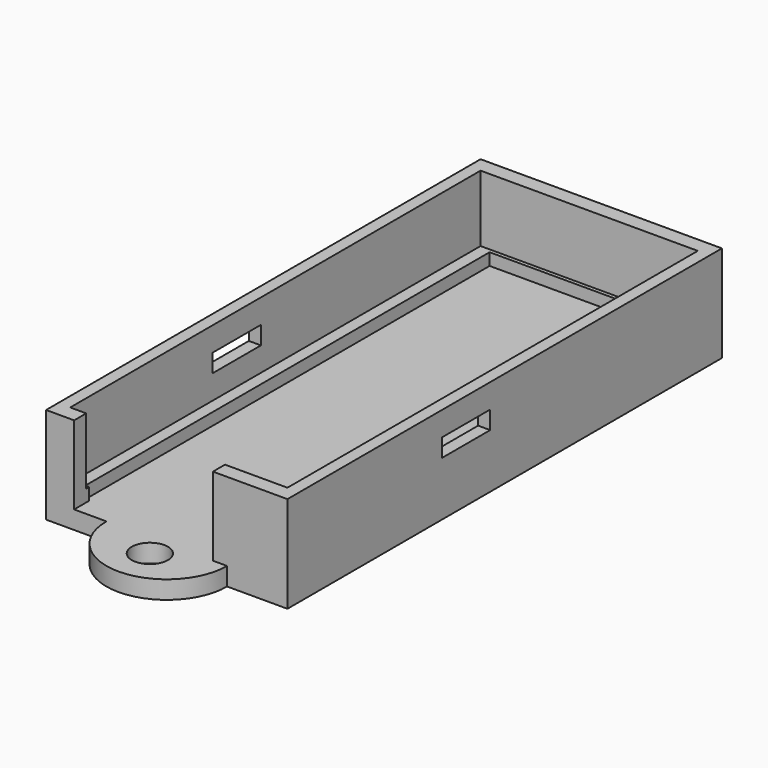
from build123d import *

# Parameters (mm, degrees)
BOX002_W          = 50
BOX002_H          = 10
BOX002_DEPTH      = 3
CYLINDER001_R     = 3
CYLINDER001_DEPTH = 5
CYLINDER_R        = 10
CYLINDER_DEPTH    = 3
CYLINDER003_R     = 3
CYLINDER003_DEPTH = 5
CYLINDER002_R     = 10
CYLINDER002_DEPTH = 3
BOX001_W          = 36
BOX001_H          = 85
BOX001_DEPTH      = 15
BOX_W             = 23
BOX_H             = 15
BOX_DEPTH         = 13
SKETCH_W          = 40
SKETCH_H          = 90
PAD_DEPTH         = 16
SKETCH001_W       = 32
SKETCH001_H       = 83.75
POCKET_DEPTH      = 13


with BuildPart() as cube002:
    # Box002 → Box002 (new body)
    with BuildSketch(Plane(origin=(-25, -13, 9), x_dir=(1, 0, 0), z_dir=(0, 0, 1))):
        with Locations((25, 5)):
            Rectangle(BOX002_W, BOX002_H)
    extrude(amount=BOX002_DEPTH)


with BuildPart() as cylinder001:
    # Cylinder001 → Cylinder001 (new body)
    with BuildSketch(Plane(origin=(0, -48.5, -1), x_dir=(1, 0, 0), z_dir=(0, 0, 1))):
        Circle(CYLINDER001_R)
    extrude(amount=CYLINDER001_DEPTH)


with BuildPart() as also_ful:
    # Cylinder → Cylinder (new body)
    with BuildSketch(Plane(origin=(0, -45, 0), x_dir=(1, 0, 0), z_dir=(0, 0, 1))):
        Circle(CYLINDER_R)
    extrude(amount=CYLINDER_DEPTH)

    # Cut002: cut Cylinder001
    add(cylinder001.part, mode=Mode.SUBTRACT)


with BuildPart() as cylinder003:
    # Cylinder003 → Cylinder003 (new body)
    with BuildSketch(Plane(origin=(0, 48.5, -1), x_dir=(1, 0, 0), z_dir=(0, 0, 1))):
        Circle(CYLINDER003_R)
    extrude(amount=CYLINDER003_DEPTH)


with BuildPart() as obj1:
    # Cylinder002 → Cylinder002 (new body)
    with BuildSketch(Plane(origin=(0, 45, 0), x_dir=(1, 0, 0), z_dir=(0, 0, 1))):
        Circle(CYLINDER002_R)
    extrude(amount=CYLINDER002_DEPTH)

    # Cut003: cut Cylinder003
    add(cylinder003.part, mode=Mode.SUBTRACT)


with BuildPart() as cube001:
    # Box001 → Box001 (new body)
    with BuildSketch(Plane(origin=(-18, -42.5, 5), x_dir=(1, 0, 0), z_dir=(0, 0, 1))):
        with Locations((18, 42.5)):
            Rectangle(BOX001_W, BOX001_H)
    extrude(amount=BOX001_DEPTH)


with BuildPart() as cube:
    # Box → Box (new body)
    with BuildSketch(Plane(origin=(-15.35, -49.3, 3), x_dir=(1, 0, 0), z_dir=(0, 0, 1))):
        with Locations((11.5, 7.5)):
            Rectangle(BOX_W, BOX_H)
    extrude(amount=BOX_DEPTH)


with BuildPart() as also:
    # Sketch → Pad (new body)
    with BuildSketch(Plane.XY):
        Rectangle(SKETCH_W, SKETCH_H)
    extrude(amount=PAD_DEPTH)

    # Sketch001 (on Face6 of Pad) → Pocket (cut)
    with BuildSketch(Plane.XY.offset(16)):
        Rectangle(SKETCH001_W, SKETCH001_H)
    extrude(amount=-POCKET_DEPTH, mode=Mode.SUBTRACT)

    # Cut: cut Cube
    add(cube.part, mode=Mode.SUBTRACT)

    # Cut001: cut Cube001
    add(cube001.part, mode=Mode.SUBTRACT)

    # Fusion: union also ful, obj1
    add(also_ful.part)
    add(obj1.part)

    # Cut004: cut Cube002
    add(cube002.part, mode=Mode.SUBTRACT)


solid = also.part
